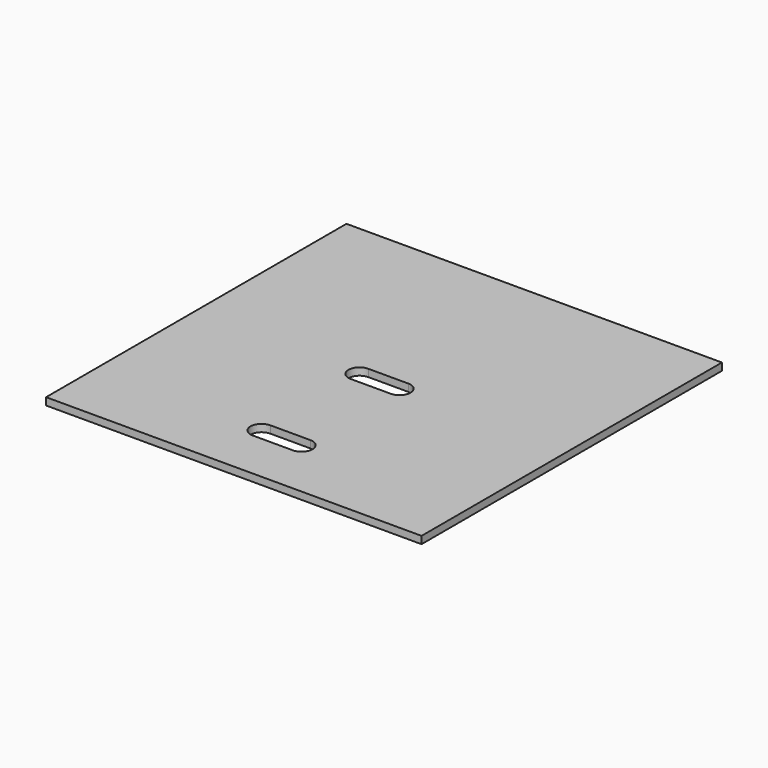
from build123d import *

# Parameters (mm, degrees)
F0_W     = 460
F0_H     = 460
F1_DEPTH = 9


with BuildPart() as f1:
    # F0 (on Top) → F1 (new body)
    with BuildSketch(Plane.XY):
        with Locations((230, 230)):
            Rectangle(F0_W, F0_H)
        with BuildLine():
            Line((252.99375, 61.5), (203.99375, 61.5))
            ThreePointArc((203.99375, 61.5), (190.49375, 75), (203.99375, 88.5))
            Line((203.99375, 88.5), (252.99375, 88.5))
            ThreePointArc((252.99375, 88.5), (266.49375, 75), (252.99375, 61.5))
        make_face(mode=Mode.SUBTRACT)
        with BuildLine():
            ThreePointArc((252.99375, 238.5), (266.49375, 225), (252.99375, 211.5))
            Line((252.99375, 211.5), (203.99375, 211.5))
            ThreePointArc((203.99375, 211.5), (190.49375, 225), (203.99375, 238.5))
            Line((203.99375, 238.5), (252.99375, 238.5))
        make_face(mode=Mode.SUBTRACT)
    extrude(amount=F1_DEPTH)


solid = f1.part
